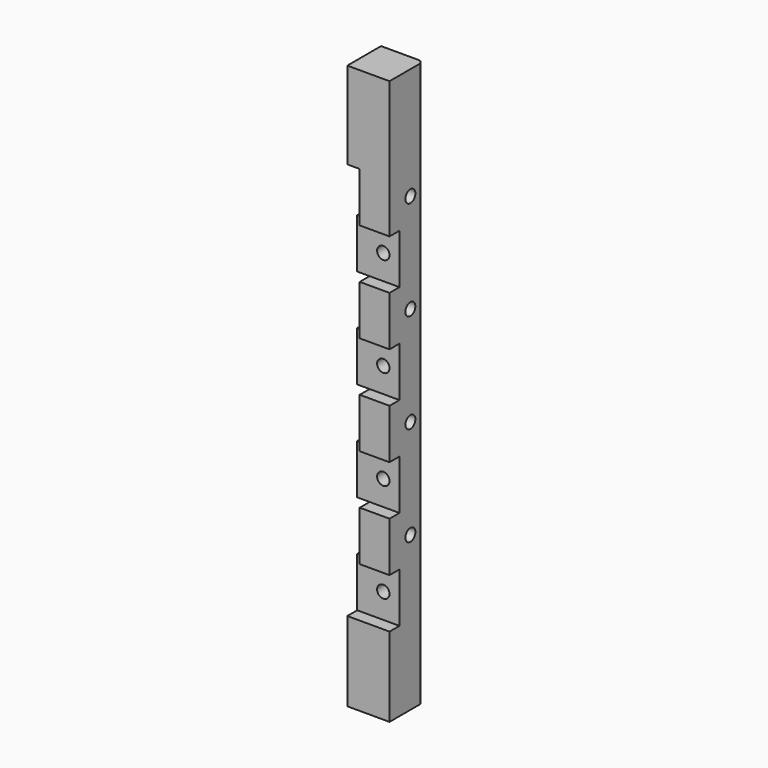
from build123d import *

# Parameters (mm, degrees)
SKETCH_W               = 8.5
SKETCH_H               = 8.5
PAD_DEPTH              = 113.5
SKETCH001_W            = 10
SKETCH001_H            = 10
POCKET_DEPTH           = 2.5
LINEARPATTERN_COUNT    = 4
LINEARPATTERN_PITCH    = 20
SKETCH002_W            = 10
SKETCH002_H            = 10
POCKET001_DEPTH        = 2.5
LINEARPATTERN001_COUNT = 4
LINEARPATTERN001_PITCH = 20
FILLET_R               = 1
SKETCH003_R            = 1.25
POCKET002_DEPTH        = 6.001
LINEARPATTERN002_COUNT = 4
LINEARPATTERN002_PITCH = 20
SKETCH004_R            = 1.25
POCKET003_DEPTH        = 6.001
LINEARPATTERN003_COUNT = 4
LINEARPATTERN003_PITCH = 20


with BuildPart() as part:
    # Sketch → Pad (new body)
    with BuildSketch(Plane.XY):
        with Locations((4.25, 4.25)):
            Rectangle(SKETCH_W, SKETCH_H)
    extrude(amount=PAD_DEPTH)

    # Sketch001 → Pocket (cut)
    with BuildSketch(Plane.XZ):
        with Locations((4.410969, 21)):
            Rectangle(SKETCH001_W, SKETCH001_H)
    pocket = extrude(amount=-POCKET_DEPTH, mode=Mode.SUBTRACT)

    # LinearPattern: Pocket ×4
    with Locations(*[(0, 0, i * LINEARPATTERN_PITCH) for i in range(1, LINEARPATTERN_COUNT)]):
        add(pocket, mode=Mode.SUBTRACT)

    # Sketch002 → Pocket001 (cut)
    with BuildSketch(Plane(origin=(0, 0, 0), x_dir=(0, -1, 0), z_dir=(-1, 0, 0))):
        with Locations((-4.326825, 31)):
            Rectangle(SKETCH002_W, SKETCH002_H)
    pocket001 = extrude(amount=-POCKET001_DEPTH, mode=Mode.SUBTRACT)

    # LinearPattern001: Pocket001 ×4
    with Locations(*[(0, 0, i * LINEARPATTERN001_PITCH) for i in range(1, LINEARPATTERN001_COUNT)]):
        add(pocket001, mode=Mode.SUBTRACT)

    # Fillet
    fillet_edges = [part.edges().sort_by_distance(p)[0] for p in [
        (8.5, 8.5, 56.75),
    ]]
    fillet(fillet_edges, radius=FILLET_R)

    # Sketch003 → Pocket002 (cut, through all)
    with BuildSketch(Plane.XZ.offset(-2.5)):
        with Locations((5.25, 21)):
            Circle(SKETCH003_R)
    pocket002 = extrude(amount=-POCKET002_DEPTH, mode=Mode.SUBTRACT)

    # LinearPattern002: Pocket002 ×4
    with Locations(*[(0, 0, i * LINEARPATTERN002_PITCH) for i in range(1, LINEARPATTERN002_COUNT)]):
        add(pocket002, mode=Mode.SUBTRACT)

    # Sketch004 → Pocket003 (cut, through all)
    with BuildSketch(Plane(origin=(2.5, 0, 0), x_dir=(0, -1, 0), z_dir=(-1, 0, 0))):
        with Locations((-5.25, 31)):
            Circle(SKETCH004_R)
    pocket003 = extrude(amount=-POCKET003_DEPTH, mode=Mode.SUBTRACT)

    # LinearPattern003: Pocket003 ×4
    with Locations(*[(0, 0, i * LINEARPATTERN003_PITCH) for i in range(1, LINEARPATTERN003_COUNT)]):
        add(pocket003, mode=Mode.SUBTRACT)


solid = part.part
